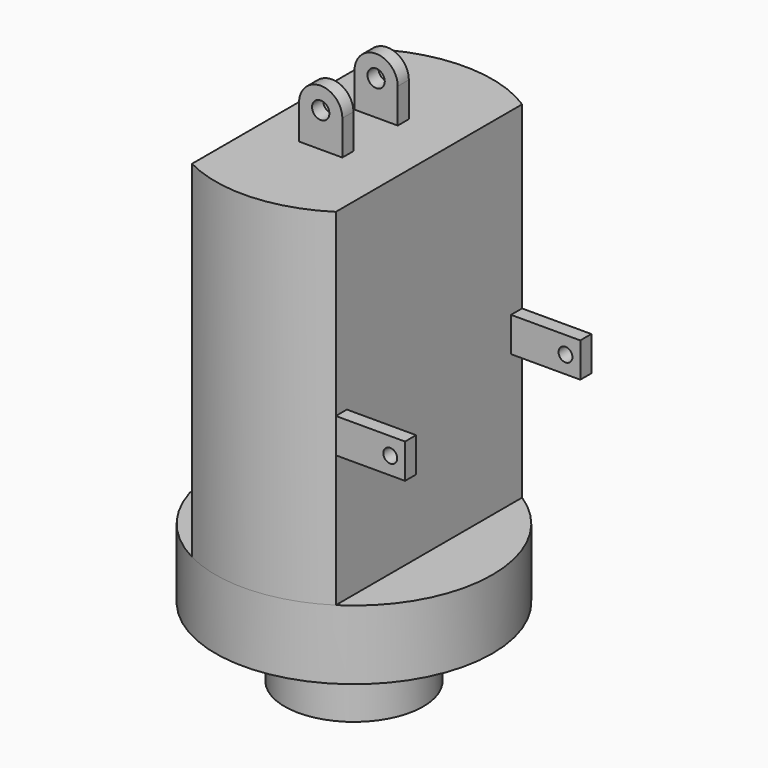
from build123d import *

# Parameters (mm, degrees)
F0_W      = 20
F0_H      = 20
F3_DEPTH  = 100
F4_W      = 12.4831434727
F4_H      = 4
F5_DEPTH  = 20
F7_DEPTH  = 50
F6_R      = 2.5
F8_DEPTH  = 50
F9_W      = 4
F9_H      = 10
F10_DEPTH = 20
F11_DEPTH = 20
F12_R     = 2
F13_DEPTH = 100


with BuildPart() as f1:
    # F0 (on Front) → F1 (revolve)
    with BuildSketch(Plane.XZ):
        with Locations((10, -10)):
            Rectangle(F0_W, F0_H)
        Polygon((0, 20), (0, 0), (20, 0), (40, 0), (40, 20), align=None)
    revolve(axis=Axis((0, 0, 10), (0, 0, -1)))

    # F2 (on face) → F3 (join)
    with BuildSketch(Plane.XY.offset(20)):
        with BuildLine():
            ThreePointArc((21.6592059983, 33.6285413826), (1.9166212828, 39.9540556497), (-18.3407940017, 35.5473666449))
            Line((-18.3407940017, 35.5473666449), (-18.3407940017, -35.5473666449))
            ThreePointArc((-18.3407940017, -35.5473666449), (1.9166212828, -39.9540556497), (21.6592059983, -33.6285413826))
            Line((21.6592059983, -33.6285413826), (21.6592059983, 33.6285413826))
        make_face()
    extrude(amount=F3_DEPTH)

    # F4 (on face) → F5 (join)
    with BuildSketch(Plane.XY.offset(120)):
        with Locations((0, -10)):
            Rectangle(F4_W, F4_H)
        with Locations((0, 10)):
            Rectangle(F4_W, F4_H)
    extrude(amount=F5_DEPTH)

    # F6 (on face) → F7 (cut)
    with BuildSketch(Plane.XZ.offset(12)):
        with BuildLine():
            ThreePointArc((-6.2415717364, 130), (0, 136.2415717364), (6.2415717364, 130))
            Line((6.2415717364, 130), (6.2415717364, 140))
            Line((6.2415717364, 140), (-6.2415717364, 140))
            Line((-6.2415717364, 140), (-6.2415717364, 130))
        make_face()
    extrude(amount=-F7_DEPTH, mode=Mode.SUBTRACT)

    # F6 (on face) → F8 (cut)
    with BuildSketch(Plane.XZ.offset(12)):
        with Locations((0, 130)):
            Circle(F6_R)
    extrude(amount=-F8_DEPTH, mode=Mode.SUBTRACT)

    # F9 (on face) → F10 (join)
    with BuildSketch(Plane.YZ.offset(21.6592059983)):
        with Locations((-31.6285413826, 63.1026673317)):
            Rectangle(F9_W, F9_H)
    extrude(amount=F10_DEPTH)

    # F9 (on face) → F11 (join)
    with BuildSketch(Plane.YZ.offset(21.6592059983)):
        with Locations((31.6285413826, 63.1026673317)):
            Rectangle(F9_W, F9_H)
    extrude(amount=F11_DEPTH)

    # F12 (on face) → F13 (cut)
    with BuildSketch(Plane.XZ.offset(33.6285413826)):
        with Locations((37.3907499015, 63.1026673317)):
            Circle(F12_R)
    extrude(amount=-F13_DEPTH, mode=Mode.SUBTRACT)


solid = f1.part
